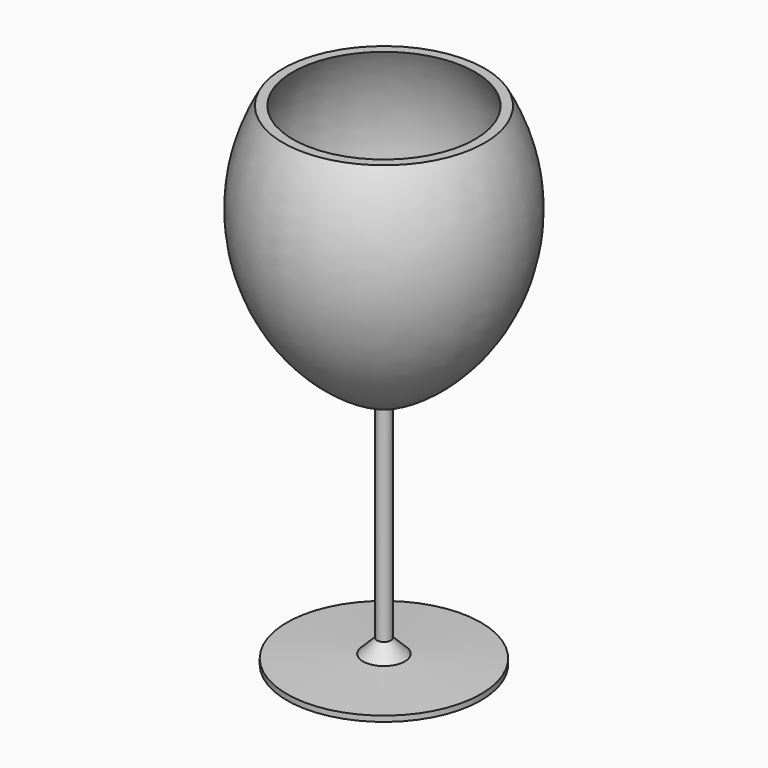
from build123d import *


with BuildPart() as f1:
    # F0 (on Front) → F1 (revolve)
    with BuildSketch(Plane.XZ):
        with BuildLine():
            ThreePointArc((41.740253, 117.475), (48.661012, 48.863071), (0, 0))
            Line((0, 0), (0, -107.95))
            Line((0, -107.95), (44.45, -107.95))
            Line((44.45, -107.95), (44.45, -105.41))
            Line((44.45, -105.41), (9.572863, -103.582167))
            Line((9.572863, -103.582167), (3.175, -97.184303))
            Line((3.175, -97.184303), (3.175, -2.908955))
            ThreePointArc((3.175, -2.908955), (52.226825, 47.44137), (46.183035, 117.475))
            Line((46.183035, 117.475), (41.740253, 117.475))
        make_face()
    revolve(axis=Axis((0, 0, -53.975), (0, 0, -1)))


solid = f1.part
